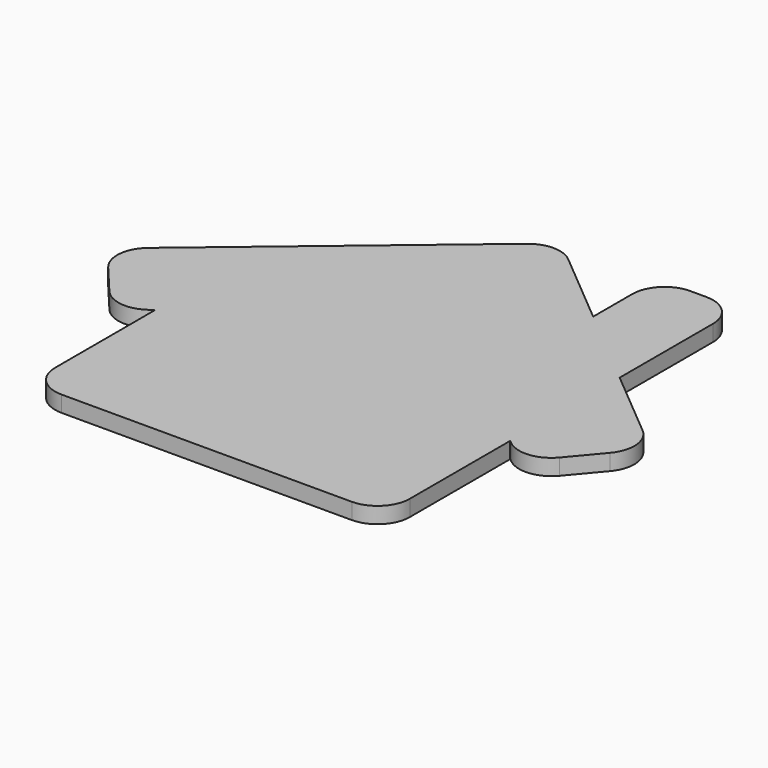
from build123d import *

# Parameters (mm, degrees)
PAD_DEPTH = 2
FILLET_R  = 4


with BuildPart() as part:
    # Sketch → Pad (new body)
    with BuildSketch(Plane.XY):
        Polygon((-22, 0), (22, 0), (22, 19.569513), (25.349717, 16.758767), (33.705955, 26.717345), (22, 36.539808), (22, 55), (12, 55), (12, 44.930804), (0, 55), (-33.705955, 26.717345), (-25.349717, 16.758767), (-22, 19.569513), align=None)
    extrude(amount=PAD_DEPTH)

    # Fillet
    fillet_edges = [part.edges().sort_by_distance(p)[0] for p in [
        (22, 0, 1),
        (25.349717, 16.758767, 1),
        (33.705955, 26.717345, 1),
        (12, 55, 1),
        (22, 55, 1),
        (0, 55, 1),
        (-33.705955, 26.717345, 1),
        (-25.349717, 16.758767, 1),
        (-22, 0, 1),
    ]]
    fillet(fillet_edges, radius=FILLET_R)


solid = part.part
